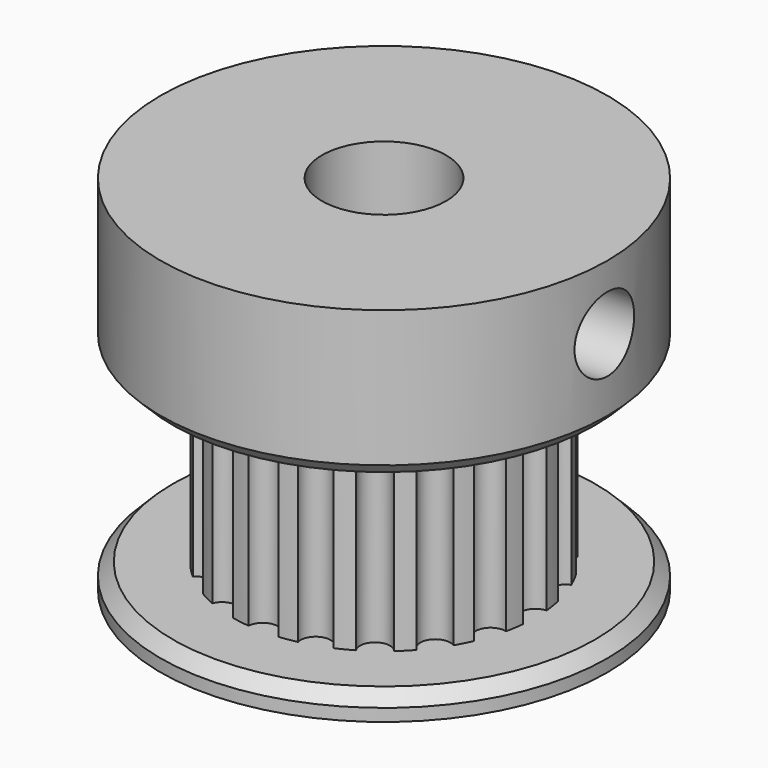
from build123d import *

# Parameters (mm, degrees)
CYLINDER014_R           = 1.5
CYLINDER014_DEPTH       = 9
CYLINDER014_PITCH_ANGLE = 90
CYLINDER013_R           = 2.5
CYLINDER013_DEPTH       = 14.6
CYLINDER011_R           = 9
CYLINDER011_DEPTH       = 1
CHAMFER007_SIZE         = 0.5
CYLINDER012_R           = 9
CYLINDER012_DEPTH       = 6
CHAMFER008_SIZE         = 0.5
CYLINDER009_R           = 0.6
CYLINDER009_DEPTH       = 7.6
ARRAY_COUNT             = 20
CYLINDER010_R           = 6.1
CYLINDER010_DEPTH       = 7.6


with BuildPart() as cilindro007:
    # Cylinder014 → Cylinder014 (new body)
    with BuildSketch(Plane.XY):
        Circle(CYLINDER014_R)
    extrude(amount=CYLINDER014_DEPTH)


with BuildPart() as cilindro007_1:
    # Cylinder014 pitch: moved
    add(cilindro007.part.rotate(Axis((0, 0, 0), (0, 1, 0)), CYLINDER014_PITCH_ANGLE))


with BuildPart() as cilindro007_2:
    # Cylinder014 placement: moved
    add(cilindro007_1.part.moved(Location((1, 0, 12))))


with BuildPart() as cilindro006:
    # Cylinder013 → Cylinder013 (new body)
    with BuildSketch(Plane.XY):
        Circle(CYLINDER013_R)
    extrude(amount=CYLINDER013_DEPTH)


with BuildPart() as chamfer007:
    # Cylinder011 → Cylinder011 (new body)
    with BuildSketch(Plane.XY):
        Circle(CYLINDER011_R)
    extrude(amount=CYLINDER011_DEPTH)

    # Chamfer007
    chamfer007_edges = [chamfer007.edges().sort_by_distance(p)[0] for p in [
        (-9, 0, 1),
    ]]
    chamfer(chamfer007_edges, length=CHAMFER007_SIZE)


with BuildPart() as chamfer008:
    # Cylinder012 → Cylinder012 (new body)
    with BuildSketch(Plane.XY.offset(8.6)):
        Circle(CYLINDER012_R)
    extrude(amount=CYLINDER012_DEPTH)

    # Chamfer008
    chamfer008_edges = [chamfer008.edges().sort_by_distance(p)[0] for p in [
        (-9, 0, 8.6),
    ]]
    chamfer(chamfer008_edges, length=CHAMFER008_SIZE)


with BuildPart() as array:
    # Cylinder009 → Cylinder009 (new body)
    with BuildSketch(Plane(origin=(6.1, 0, 0), x_dir=(1, 0, 0), z_dir=(0, 0, 1))):
        Circle(CYLINDER009_R)
    extrude(amount=CYLINDER009_DEPTH)

    # Array: Array ×20 about axis
    array_axis = Axis((0, 0, 0), (0, 0, 1))


with BuildPart() as array_1:
    add(array.part)
    for i in range(1, ARRAY_COUNT):
        add(array.part.rotate(array_axis, i * 360 / ARRAY_COUNT))


with BuildPart() as cut017:
    # Cylinder010 → Cylinder010 (new body)
    with BuildSketch(Plane.XY):
        Circle(CYLINDER010_R)
    extrude(amount=CYLINDER010_DEPTH)

    # Cut015: cut Array
    add(array_1.part, mode=Mode.SUBTRACT)


with BuildPart() as cut017_1:
    # Cut015 placement: moved
    add(cut017.part.moved(Location((0, 0, 1))))

    # Fusion006: union Chamfer007, Chamfer008
    add(chamfer007.part)
    add(chamfer008.part)

    # Cut016: cut Cilindro006
    add(cilindro006.part, mode=Mode.SUBTRACT)

    # Cut017: cut Cilindro007
    add(cilindro007_2.part, mode=Mode.SUBTRACT)


solid = cut017_1.part
